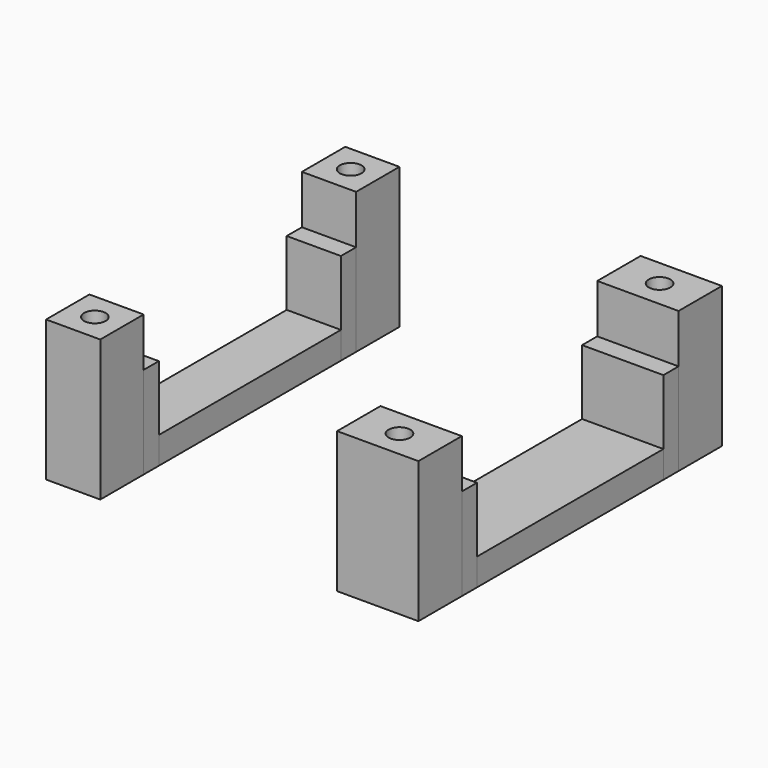
from build123d import *

# Parameters (mm, degrees)
F0_W     = 15
F0_H     = 43
F1_DEPTH = 5
F0_W_2   = 10
F0_H_2   = 42
F0_H_3   = 3.5
F2_DEPTH = 17
F0_H_4   = 10
F0_R     = 2
F3_DEPTH = 26
F4_DEPTH = 9.5


with BuildPart() as f1:
    # F0 (on Top) → F1 (new body)
    with BuildSketch(Plane.XY):
        with Locations((52.5, -35)):
            Rectangle(F0_W, F0_H)
    extrude(amount=F1_DEPTH)


with BuildPart() as f1b:
    # F0 (on Top) → F1, piece 2 (new body)
    with BuildSketch(Plane.XY):
        with Locations((-4.5, -34.5)):
            Rectangle(F0_W_2, F0_H_2)
    extrude(amount=F1_DEPTH)


with BuildPart() as f2:
    # F0 (on Top) → F2 (new body)
    with BuildSketch(Plane.XY):
        with Locations((-4.5, -57.25)):
            Rectangle(F0_W_2, F0_H_3)
    extrude(amount=F2_DEPTH)


with BuildPart() as f2b:
    # F0 (on Top) → F2, piece 2 (new body)
    with BuildSketch(Plane.XY):
        with Locations((-4.5, -11.75)):
            Rectangle(F0_W_2, F0_H_3)
    extrude(amount=F2_DEPTH)


with BuildPart() as f2c:
    # F0 (on Top) → F2, piece 3 (new body)
    with BuildSketch(Plane.XY):
        with Locations((52.5, -11.75)):
            Rectangle(F0_W, F0_H_3)
    extrude(amount=F2_DEPTH)


with BuildPart() as f2d:
    # F0 (on Top) → F2, piece 4 (new body)
    with BuildSketch(Plane.XY):
        with Locations((52.5, -58.25)):
            Rectangle(F0_W, F0_H_3)
    extrude(amount=F2_DEPTH)


with BuildPart() as f3:
    # F0 (on Top) → F3 (new body)
    with BuildSketch(Plane.XY):
        with Locations((52.5, -65)):
            Rectangle(F0_W, F0_H_4)
        Polygon((54.7022840134, -60.9915724967), (56.990959148, -64.9556741118), (54.7022840134, -68.919775727), (50.1249337443, -68.919775727), (47.8362586097, -64.9556741118), (50.1249337443, -60.9915724967), align=None, mode=Mode.SUBTRACT)
        Polygon((54.7022840134, -68.919775727), (56.990959148, -64.9556741118), (54.7022840134, -60.9915724967), (50.1249337443, -60.9915724967), (47.8362586097, -64.9556741118), (50.1249337443, -68.919775727), align=None)
        with Locations((52.5, -65)):
            Circle(F0_R, mode=Mode.SUBTRACT)
    extrude(amount=F3_DEPTH)


with BuildPart() as f3b:
    # F0 (on Top) → F3, piece 2 (new body)
    with BuildSketch(Plane.XY):
        with Locations((-4.5, -64)):
            Rectangle(F0_W_2, F0_H_4)
        Polygon((-2.1969641433, -60.0274599169), (0.0917109913, -63.991561532), (-2.1969641433, -67.9556631472), (-6.7743144124, -67.9556631472), (-9.062989547, -63.991561532), (-6.7743144124, -60.0274599169), align=None, mode=Mode.SUBTRACT)
        Polygon((-2.1969641433, -67.9556631472), (0.0917109913, -63.991561532), (-2.1969641433, -60.0274599169), (-6.7743144124, -60.0274599169), (-9.062989547, -63.991561532), (-6.7743144124, -67.9556631472), align=None)
        with Locations((-4.5, -64)):
            Circle(F0_R, mode=Mode.SUBTRACT)
    extrude(amount=F3_DEPTH)


with BuildPart() as f3c:
    # F0 (on Top) → F3, piece 3 (new body)
    with BuildSketch(Plane.XY):
        with Locations((-4.5, -5)):
            Rectangle(F0_W_2, F0_H_4)
        Polygon((-2.2473798938, -1.0798841726), (0.0412952408, -5.0439857878), (-2.2473798938, -9.0080874029), (-6.824730163, -9.0080874029), (-9.1134052976, -5.0439857878), (-6.824730163, -1.0798841726), align=None, mode=Mode.SUBTRACT)
        Polygon((-2.2473798938, -9.0080874029), (0.0412952408, -5.0439857878), (-2.2473798938, -1.0798841726), (-6.824730163, -1.0798841726), (-9.1134052976, -5.0439857878), (-6.824730163, -9.0080874029), align=None)
        with Locations((-4.5, -5)):
            Circle(F0_R, mode=Mode.SUBTRACT)
    extrude(amount=F3_DEPTH)


with BuildPart() as f3d:
    # F0 (on Top) → F3, piece 4 (new body)
    with BuildSketch(Plane.XY):
        with Locations((52.5, -5)):
            Rectangle(F0_W, F0_H_4)
        Polygon((54.7595640771, -1.0004288528), (57.0482392117, -4.964530468), (54.7595640771, -8.9286320831), (50.1822138079, -8.9286320831), (47.8935386733, -4.964530468), (50.1822138079, -1.0004288528), align=None, mode=Mode.SUBTRACT)
        Polygon((54.7595640771, -8.9286320831), (57.0482392117, -4.964530468), (54.7595640771, -1.0004288528), (50.1822138079, -1.0004288528), (47.8935386733, -4.964530468), (50.1822138079, -8.9286320831), align=None)
        with Locations((52.5, -5)):
            Circle(F0_R, mode=Mode.SUBTRACT)
    extrude(amount=F3_DEPTH)


with BuildPart() as f4_tool:
    # F0 (on Top) → F4 (new body)
    with BuildSketch(Plane.XY):
        Polygon((54.7022840134, -68.919775727), (56.990959148, -64.9556741118), (54.7022840134, -60.9915724967), (50.1249337443, -60.9915724967), (47.8362586097, -64.9556741118), (50.1249337443, -68.919775727), align=None)
        with Locations((52.5, -65)):
            Circle(F0_R, mode=Mode.SUBTRACT)
        Polygon((54.7595640771, -8.9286320831), (57.0482392117, -4.964530468), (54.7595640771, -1.0004288528), (50.1822138079, -1.0004288528), (47.8935386733, -4.964530468), (50.1822138079, -8.9286320831), align=None)
        with Locations((52.5, -5)):
            Circle(F0_R, mode=Mode.SUBTRACT)
        Polygon((-2.1969641433, -67.9556631472), (0.0917109913, -63.991561532), (-2.1969641433, -60.0274599169), (-6.7743144124, -60.0274599169), (-9.062989547, -63.991561532), (-6.7743144124, -67.9556631472), align=None)
        with Locations((-4.5, -64)):
            Circle(F0_R, mode=Mode.SUBTRACT)
        Polygon((-2.2473798938, -9.0080874029), (0.0412952408, -5.0439857878), (-2.2473798938, -1.0798841726), (-6.824730163, -1.0798841726), (-9.1134052976, -5.0439857878), (-6.824730163, -9.0080874029), align=None)
        with Locations((-4.5, -5)):
            Circle(F0_R, mode=Mode.SUBTRACT)
    extrude(amount=F4_DEPTH)


with BuildPart() as f3_1:
    add(f3.part)

    # F4: cut by f4_tool
    add(f4_tool.part, mode=Mode.SUBTRACT)


with BuildPart() as f3b_1:
    add(f3b.part)

    # F4: cut by f4_tool
    add(f4_tool.part, mode=Mode.SUBTRACT)


with BuildPart() as f3c_1:
    add(f3c.part)

    # F4: cut by f4_tool
    add(f4_tool.part, mode=Mode.SUBTRACT)


with BuildPart() as f3d_1:
    add(f3d.part)

    # F4: cut by f4_tool
    add(f4_tool.part, mode=Mode.SUBTRACT)


solid = Compound([f1.part, f1b.part, f2.part, f2b.part, f2c.part, f2d.part, f3_1.part, f3b_1.part, f3c_1.part, f3d_1.part])
